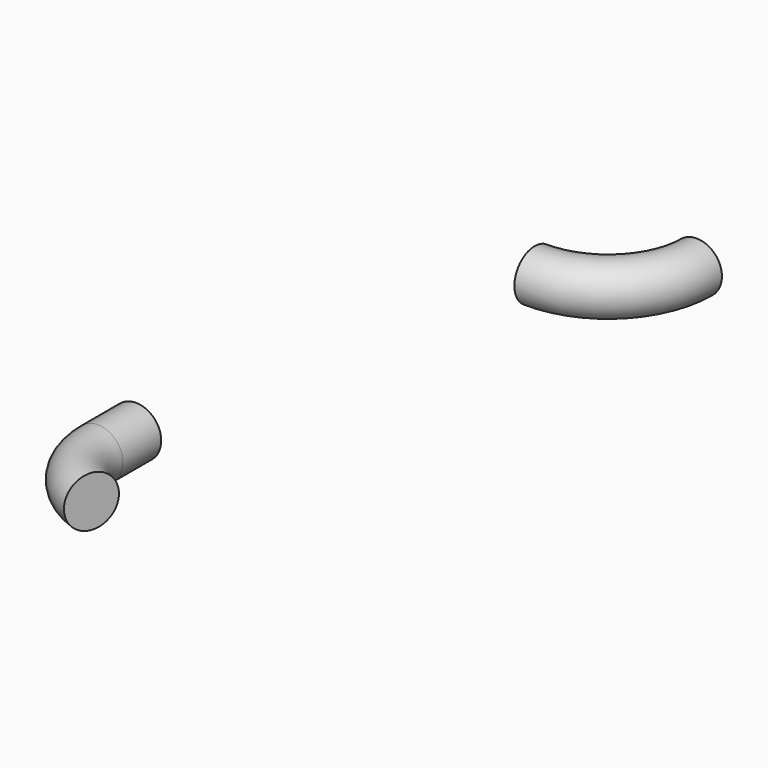
from build123d import *

# Parameters (mm, degrees)
F0_R = 7.9375
F2_R = 7.9375


with BuildPart() as f5:
    # F5: sweep along a path in F4
    with BuildLine(Plane.XY.offset(-116.68125)) as f5_path:
        Line((-200.6531674, 0), (-200.6531674, -15.001875))
        ThreePointArc((-200.6531674, -15.001875), (-196.6008993429, -27.8191685823), (-185.917041714, -35.9775432579))
    # F0 (on Front) → F5 (sweep)
    with BuildSketch(Plane.XZ):
        with Locations((-200.6531674, -116.68125)):
            Circle(F0_R)
    sweep(path=f5_path.line)


with BuildPart() as f8:
    # F8: sweep along a path in F7
    with BuildLine(Plane.XY.offset(6.35)) as f8_path:
        ThreePointArc((-28.575, -57.94375), (-8.4087762563, -49.9860811015), (0, -30.00375))
    # F2 (on offset) → F8 (sweep)
    with BuildSketch(Plane.XZ.offset(30.00375)):
        with Locations((0, 6.35)):
            Circle(F2_R)
    sweep(path=f8_path.line)


solid = Compound([f5.part, f8.part])
